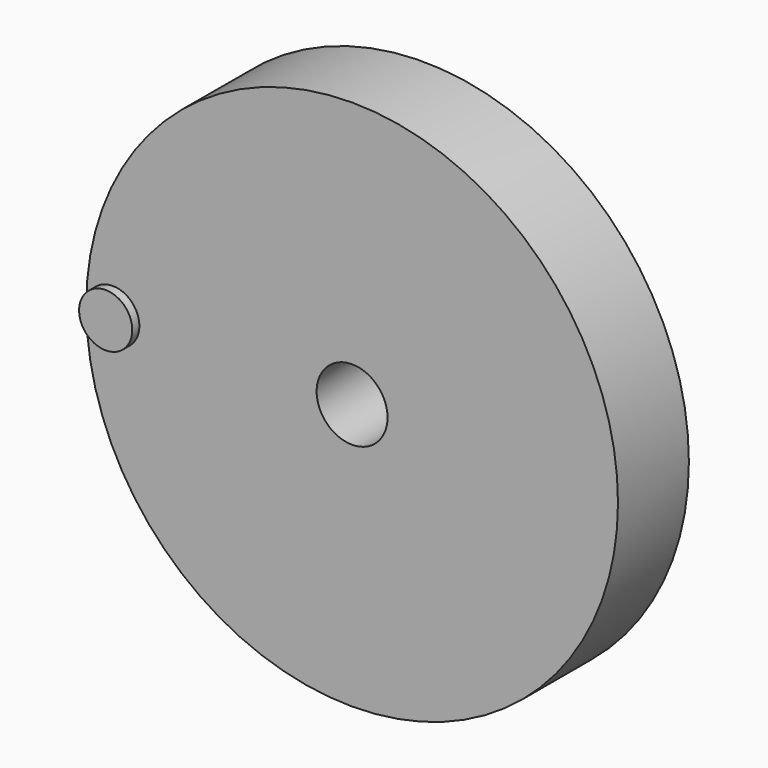
from build123d import *

# Parameters (mm, degrees)
F0_R     = 3.81
F1_DEPTH = 6.35
F2_T     = -33.02
F3_DEPTH = 7.62


with BuildPart() as f1:
    # F0 (on Front) → F1 (new body, symmetric)
    with BuildSketch(Plane.XZ):
        with BuildLine():
            ThreePointArc((-38.1, 1.128e-07), (-5.64e-08, -38.1), (38.1, 0))
            ThreePointArc((38.1, 0), (5.64e-08, 38.1), (-38.1, 1.128e-07))
        make_face()
        with BuildLine():
            ThreePointArc((-30.48, 0), (-34.2900000564, -3.81), (-38.1, 1.128e-07))
            ThreePointArc((-38.1, 1.128e-07), (-34.2899999436, 3.81), (-30.48, 0))
        make_face(mode=Mode.SUBTRACT)
        with Locations((34.29, 0)):
            Circle(F0_R, mode=Mode.SUBTRACT)
        with BuildLine():
            ThreePointArc((-30.48, 0), (-34.2899999436, 3.81), (-38.1, 1.128e-07))
            ThreePointArc((-38.1, 1.128e-07), (-34.2900000564, -3.81), (-30.48, 0))
        make_face()
        with Locations((34.29, 0)):
            Circle(F0_R)
    extrude(amount=F1_DEPTH, both=True)

    # F2
    f2_openings = [f1.faces().sort_by_distance(p)[0] for p in [
        (0, -6.35, 0),
        (0, 6.35, 0),
    ]]
    offset(amount=F2_T, openings=f2_openings)

    # F0 (on Front) → F3 (join)
    with BuildSketch(Plane.XZ):
        with BuildLine():
            ThreePointArc((-30.48, 0), (-34.2899999436, 3.81), (-38.1, 1.128e-07))
            ThreePointArc((-38.1, 1.128e-07), (-34.2900000564, -3.81), (-30.48, 0))
        make_face()
    extrude(amount=F3_DEPTH)


solid = f1.part
